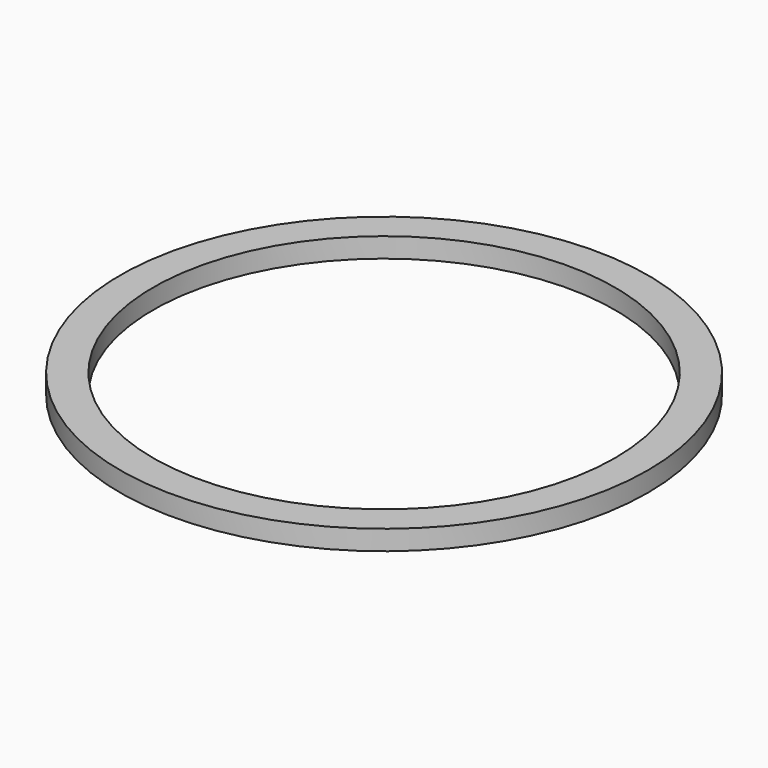
from build123d import *

# Parameters (mm, degrees)
CYLINDER089_R     = 21
CYLINDER089_DEPTH = 2
CYLINDER088_R     = 24
CYLINDER088_DEPTH = 1.8


with BuildPart() as cylinder089:
    # Cylinder089 → Cylinder089 (new body)
    with BuildSketch(Plane.XY.offset(20)):
        Circle(CYLINDER089_R)
    extrude(amount=CYLINDER089_DEPTH)


with BuildPart() as rim_support:
    # Cylinder088 → Cylinder088 (new body)
    with BuildSketch(Plane.XY.offset(20)):
        Circle(CYLINDER088_R)
    extrude(amount=CYLINDER088_DEPTH)

    # Cut030: cut Cylinder089
    add(cylinder089.part, mode=Mode.SUBTRACT)


with BuildPart() as rim_support_1:
    # Cut030 placement: moved
    add(rim_support.part.moved(Location((0, 0, 0.2))))


solid = rim_support_1.part
